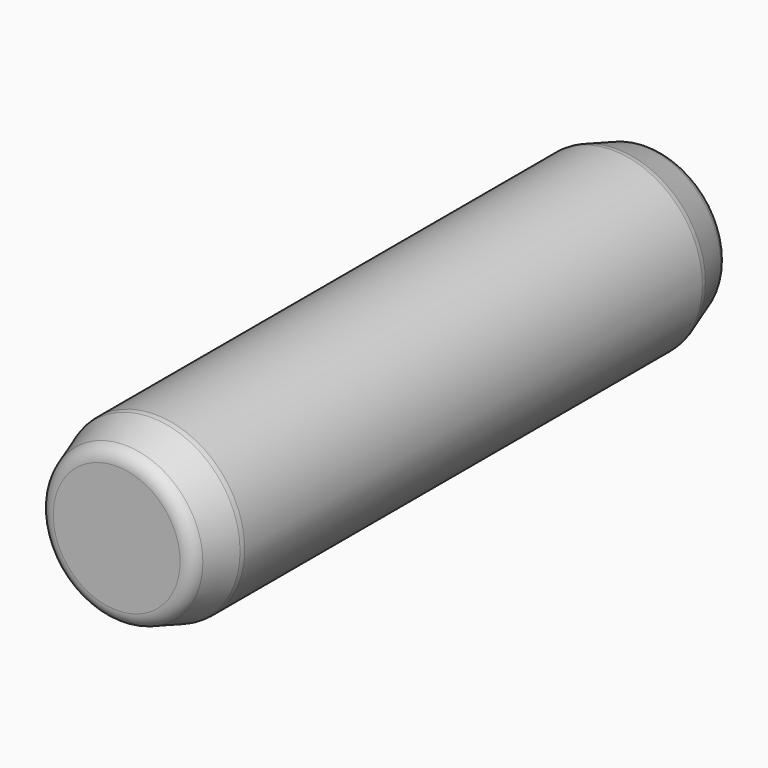
from build123d import *

# Parameters (mm, degrees)
F0_R       = 2.95
F1_DEPTH   = 22
F2_SIZE2   = 1.5
F2_SIZE    = 0.5
F2_2_SIZE2 = 1.5
F2_2_SIZE  = 0.5
F3_R       = 0.5


with BuildPart() as f1:
    # F0 (on Front) → F1 (new body)
    with BuildSketch(Plane.XZ):
        Circle(F0_R)
    extrude(amount=-F1_DEPTH)

    # F2
    f2_edges = [f1.edges().sort_by_distance(p)[0] for p in [
        (-2.95, 0, 0),
    ]]
    f2_side = f1.faces().sort_by_distance((0, 0, 0))[0]
    chamfer(f2_edges, length=F2_SIZE, length2=F2_SIZE2, reference=f2_side)

    # F2#2
    f2_2_edges = [f1.edges().sort_by_distance(p)[0] for p in [
        (-2.95, 22, 0),
    ]]
    f2_2_side = f1.faces().sort_by_distance((0, 22, 0))[0]
    chamfer(f2_2_edges, length=F2_2_SIZE, length2=F2_2_SIZE2, reference=f2_2_side)

    # F3
    f3_edges = [f1.edges().sort_by_distance(p)[0] for p in [
        (-2.45, 0, 0),
        (-2.45, 22, 0),
        (-2.95, 1.5, 0),
        (-2.95, 20.5, 0),
    ]]
    fillet(f3_edges, radius=F3_R)


solid = f1.part
